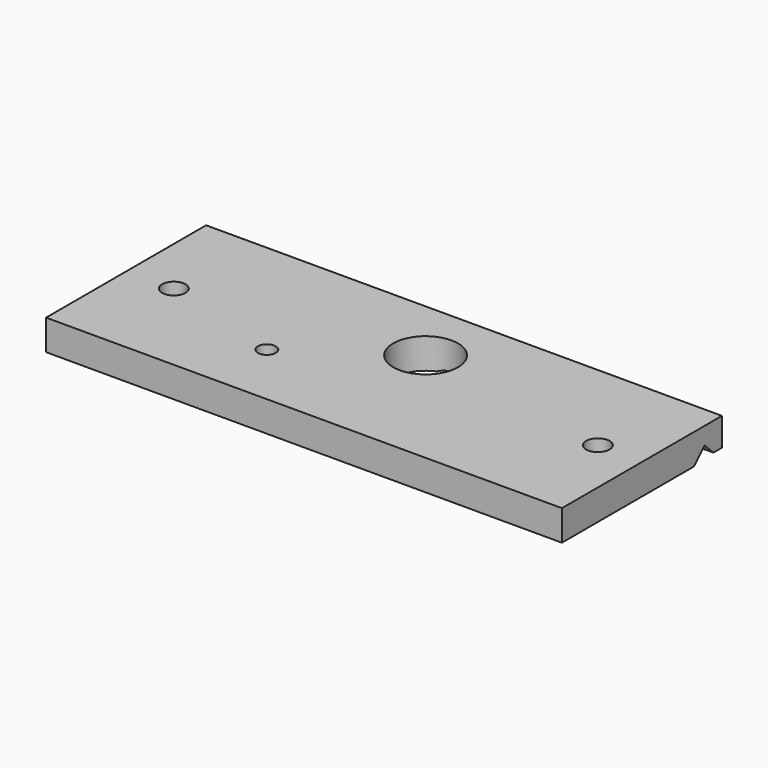
from build123d import *

# Parameters (mm, degrees)
F0_W     = 358.5
F0_H     = 139
F1_DEPTH = 10.575
F3_DEPTH = 358.501
F4_R     = 8.125
F4_R_2   = 6.25
F4_R_3   = 22.5
F5_DEPTH = 21.151


with BuildPart() as f1:
    # F0 (on Top) → F1 (new body, symmetric)
    with BuildSketch(Plane.XY):
        Rectangle(F0_W, F0_H)
    extrude(amount=F1_DEPTH, both=True)

    # F2 (on face) → F3 (cut, through all)
    with BuildSketch(Plane.YZ.offset(179.25)):
        Polygon((69.5, -8.975), (62.15, -8.975), (54.5, -1.325), (45.25, -10.575), (69.5, -10.575), align=None)
    extrude(amount=-F3_DEPTH, mode=Mode.SUBTRACT)

    # F4 (on face) → F5 (cut, through all)
    with BuildSketch(Plane(origin=(0, 0, -10.575), x_dir=(1, 0, 0), z_dir=(0, 0, -1))):
        with Locations((148.25, -0.47)):
            Circle(F4_R)
        with Locations((-146.45, -0.47)):
            Circle(F4_R)
        with Locations((-62.25, 24.03)):
            Circle(F4_R_2)
        with Locations((9.25, -24.57)):
            Circle(F4_R_3)
    extrude(amount=-F5_DEPTH, mode=Mode.SUBTRACT)


solid = f1.part
